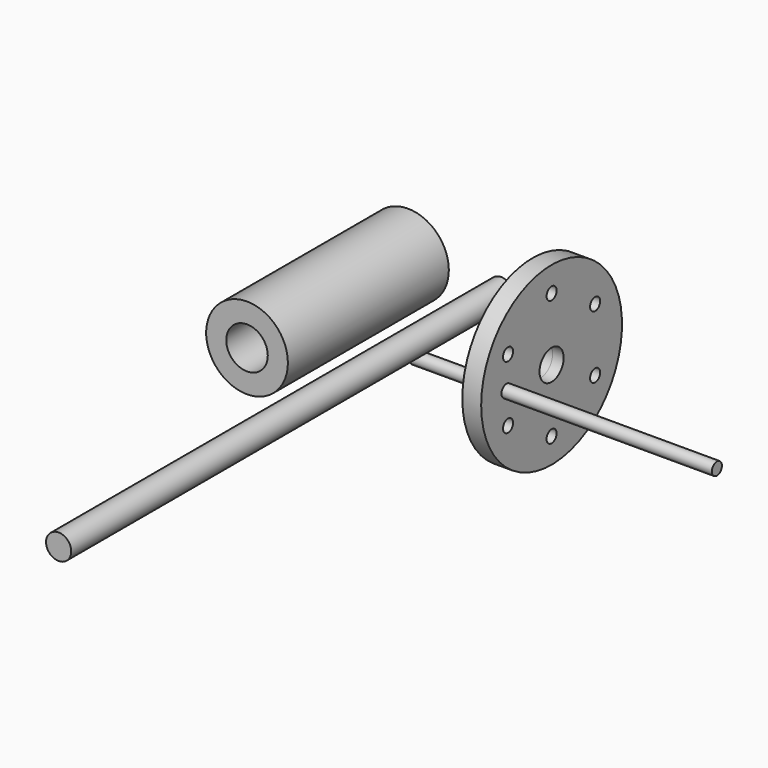
from build123d import *

# Parameters (mm, degrees)
F2_R      = 32.5
F2_R_2    = 10
F3_DEPTH  = 160
F4_R      = 16.5
F4_R_2    = 10
F5_DEPTH  = 80
F6_R      = 10
F7_DEPTH  = 440
F11_D     = 24
F11_2_D   = 24
F12_D     = 10
F13_R     = 5
F14_DEPTH = 240


with BuildPart() as f1:
    # F0 (on Top) → F1 (revolve)
    with BuildSketch(Plane.XY):
        with BuildLine():
            ThreePointArc((63.8827050147, 12), (61.435561654, 21.2290311661), (57.6628129734, 30))
            Line((57.6628129734, 30), (54.6628129734, 30))
            Line((54.6628129734, 30), (54.6628129734, 12))
            Line((54.6628129734, 12), (63.8827050147, 12))
        make_face()
    revolve(axis=Axis((28.8314064867, 0, 0), (1, 0, 0)))


with BuildPart() as f3:
    # F2 (on Front) → F3 (new body)
    with BuildSketch(Plane.XZ):
        with Locations((-41.5692739189, 39.7407151759)):
            Circle(F2_R)
        with Locations((-41.5692739189, 39.7407151759)):
            Circle(F2_R_2, mode=Mode.SUBTRACT)
    extrude(amount=F3_DEPTH)

    # F4 (on face) → F5 (cut)
    with BuildSketch(Plane.XZ.offset(160)):
        with Locations((-41.5692739189, 39.7407151759)):
            Circle(F4_R)
        with Locations((-41.5692739189, 39.7407151759)):
            Circle(F4_R_2, mode=Mode.SUBTRACT)
    extrude(amount=-F5_DEPTH, mode=Mode.SUBTRACT)

    # F11 (through all)
    with Locations(Plane.YZ.offset(72.6628129734)):
        with Locations((0, 0)):
            Hole(F11_D / 2)


with BuildPart() as f7:
    # F6 (on Front) → F7 (new body)
    with BuildSketch(Plane.XZ):
        with Locations((32.5908474624, 38.4470038116)):
            Circle(F6_R)
    extrude(amount=F7_DEPTH)


with BuildPart() as f9:
    # F8 (on Top) → F9 (revolve)
    with BuildSketch(Plane.XY):
        with BuildLine():
            Line((72.6628129734, 0), (65, 0))
            ThreePointArc((65, 0), (63.1390641492, -15.4421040783), (57.6628129734, -30))
            Line((57.6628129734, -30), (57.6628129734, -70))
            Line((57.6628129734, -70), (72.6628129734, -70))
            Line((72.6628129734, -70), (72.6628129734, 0))
        make_face()
    revolve(axis=Axis((68.8314064867, 0, 0), (1, 0, 0)))

    # F11#2 (through all)
    with Locations(Plane.YZ.offset(72.6628129734)):
        with Locations((0, 0)):
            Hole(F11_2_D / 2)

    # F12 (through all)
    with Locations(Plane.YZ.offset(72.6628129734)):
        with Locations((0, 50), (43.3012701892, 25), (43.3012701892, -25), (0, -50), (-43.3012701892, -25), (-43.3012701892, 25)):
            Hole(F12_D / 2)


with BuildPart() as f14:
    # F13 (on Right) → F14 (new body)
    with BuildSketch(Plane.YZ):
        with Locations((-44.8297650304, 0)):
            Circle(F13_R)
    extrude(amount=F14_DEPTH)


with BuildPart() as f15_1:
    # F15: copy of F14
    add(f14.part)


solid = Compound([f1.part, f3.part, f7.part, f9.part, f14.part, f15_1.part])
